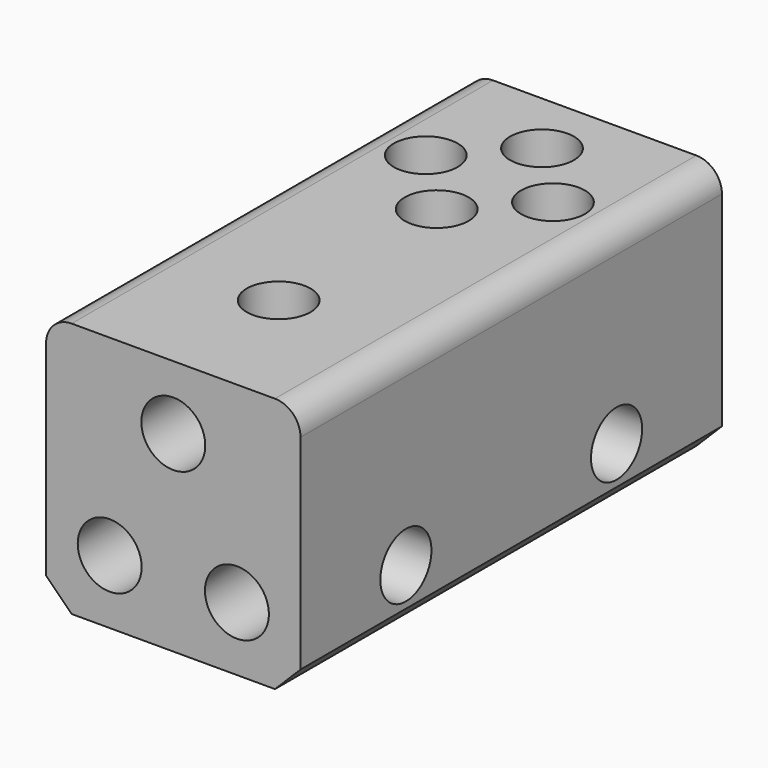
from build123d import *

# Parameters (mm, degrees)
F1_DEPTH = 25.4
F3_D     = 6.35
F5_D     = 6.35
F5_DEPTH = 6.35
F5_TIP   = 1.9077324654
F7_D     = 6.35
F7_DEPTH = 12.7
F7_TIP   = 1.9077324654
F8_R     = 2.54
F9_SIZE  = 2.54


with BuildPart() as f1:
    # F0 (on Top) → F1 (new body)
    with BuildSketch(Plane.XY):
        Polygon((-12.6398103312, -26.1644069105), (0, -26.1644069105), (12.6398103312, -26.1644069105), (12.6398103312, 0), (12.6398103312, 26.1644069105), (0, 26.1644069105), (-12.6398103312, 26.1644069105), (-12.6398103312, 0), align=None)
    extrude(amount=F1_DEPTH)

    # F3 (through all)
    with Locations(Plane.YZ.offset(12.6398103312)):
        with Locations((-13.0822034553, 6.35), (13.0822034553, 6.35)):
            Hole(F3_D / 2)

    # F5
    with Locations(Plane.XZ.offset(26.1644069105)):
        with Locations((-6.3199051656, 6.35), (6.3199051656, 6.35), (0, 19.05)):
            Hole(F5_D / 2, depth=F5_DEPTH)
            with Locations((0, 0, -(F5_DEPTH + F5_TIP / 2))):  # 118° drill point
                Cone(0, F5_D / 2, F5_TIP, mode=Mode.SUBTRACT)

    # F7
    with Locations(Plane.XY.offset(25.4)):
        with Locations((0, 19.6233051829), (0, 6.5411017276), (-6.3199051656, 13.0822034553), (6.3199051656, 13.0822034553), (0, -13.0822034553)):
            Hole(F7_D / 2, depth=F7_DEPTH)
            with Locations((0, 0, -(F7_DEPTH + F7_TIP / 2))):  # 118° drill point
                Cone(0, F7_D / 2, F7_TIP, mode=Mode.SUBTRACT)

    # F8
    f8_edges = [f1.edges().sort_by_distance(p)[0] for p in [
        (12.63981, 0, 25.4),
        (-12.63981, 0, 25.4),
    ]]
    fillet(f8_edges, radius=F8_R)

    # F9
    f9_edges = [f1.edges().sort_by_distance(p)[0] for p in [
        (-12.63981, 0, 0),
        (12.63981, 0, 0),
    ]]
    chamfer(f9_edges, length=F9_SIZE)


solid = f1.part
